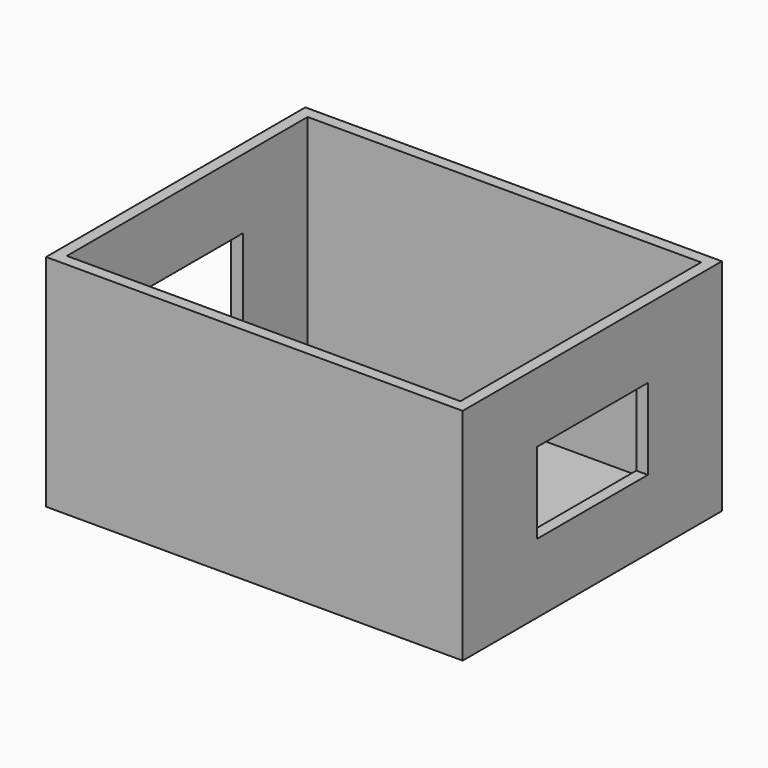
from build123d import *

# Parameters (mm, degrees)
F0_W     = 90
F0_H     = 70
F1_DEPTH = 47.5
F2_T     = -2.5
F3_W     = 30
F3_H     = 17.5
F4_DEPTH = 90


with BuildPart() as f1:
    # F0 (on Top) → F1 (new body)
    with BuildSketch(Plane.XY):
        Rectangle(F0_W, F0_H)
    extrude(amount=F1_DEPTH)

    # F2
    f2_openings = [f1.faces().sort_by_distance(p)[0] for p in [
        (0, 0, 47.5),
    ]]
    offset(amount=F2_T, openings=f2_openings)

    # F3 (on face) → F4 (cut, through all)
    with BuildSketch(Plane.YZ.offset(45)):
        with Locations((0, 23.75)):
            Rectangle(F3_W, F3_H)
    extrude(amount=-F4_DEPTH, mode=Mode.SUBTRACT)


solid = f1.part
